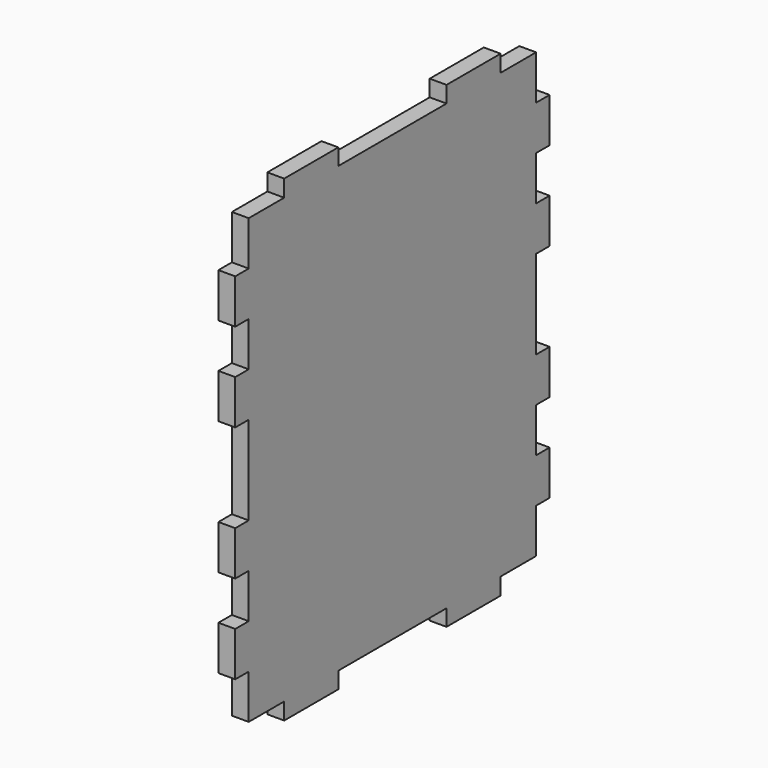
from build123d import *

# Parameters (mm, degrees)
F1_DEPTH = 3


with BuildPart() as f1:
    # F0 (on Right) → F1 (new body)
    with BuildSketch(Plane.YZ):
        Polygon((-12.05, 42.5), (-24.1, 42.5), (-24.1, 39.5), (-32, 39.5), (-32, 31.6), (-35, 31.6), (-35, 23.7), (-32, 23.7), (-32, 15.8), (-35, 15.8), (-35, 7.9), (-32, 7.9), (-32, 0), (-32, -7.9), (-35, -7.9), (-35, -15.8), (-32, -15.8), (-32, -23.7), (-35, -23.7), (-35, -31.6), (-32, -31.6), (-32, -39.5), (-24.1, -39.5), (-24.1, -42.5), (-12.05, -42.5), (-12.05, -39.572205), (12.05, -39.572205), (12.05, -42.5), (24.1, -42.5), (24.1, -39.5), (32, -39.5), (32, -31.6), (35, -31.6), (35, -23.7), (32, -23.7), (32, -15.8), (35, -15.8), (35, -7.9), (32, -7.9), (32, 0), (32, 7.9), (35, 7.9), (35, 15.8), (32, 15.8), (32, 23.7), (35, 23.7), (35, 31.6), (32, 31.6), (32, 39.5), (24.1, 39.5), (24.1, 42.5), (12.05, 42.5), (12.05, 39.572205), (-12.05, 39.572205), align=None)
    extrude(amount=F1_DEPTH)


solid = f1.part
